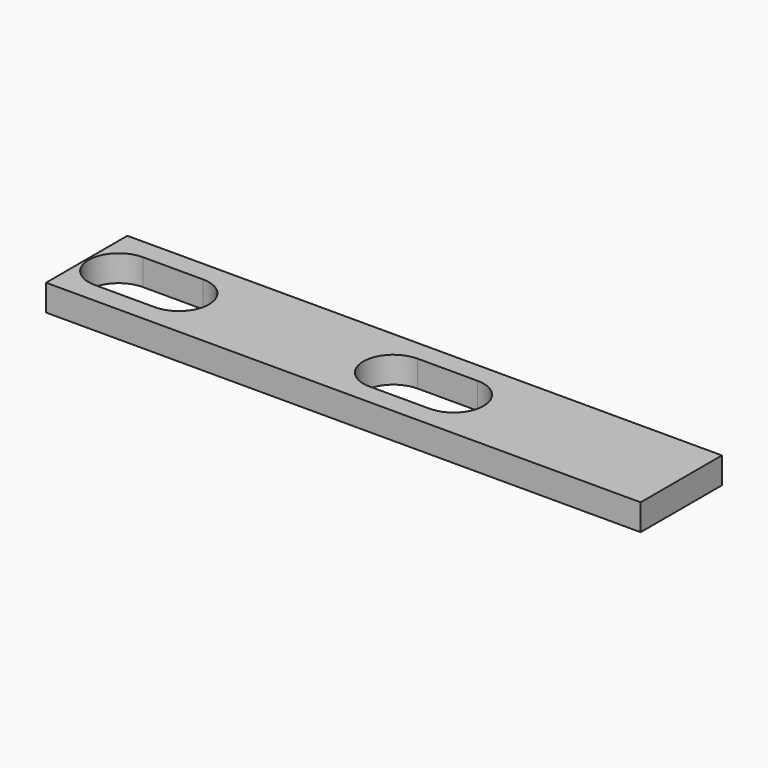
from build123d import *

# Parameters (mm, degrees)
F0_W     = 520
F0_H     = 27
F1_DEPTH = 7
F2_W     = 158
F2_H     = 96.179498
F2_W_2   = 50
F3_DEPTH = 25


with BuildPart() as f1:
    # F0 (on Top) → F1 (new body)
    with BuildSketch(Plane.XY):
        Rectangle(F0_W, F0_H)
        with BuildLine():
            ThreePointArc((-92.5, 8), (-86.843146, 5.656854), (-84.5, 0))
            ThreePointArc((-84.5, 0), (-86.843146, -5.656854), (-92.5, -8))
            Line((-92.5, -8), (-108.5, -8))
            ThreePointArc((-108.5, -8), (-116.5, 0), (-108.5, 8))
            Line((-108.5, 8), (-92.5, 8))
        make_face(mode=Mode.SUBTRACT)
        with BuildLine():
            ThreePointArc((-19.5, 8), (-13.843146, 5.656854), (-11.5, 0))
            ThreePointArc((-11.5, 0), (-13.843146, -5.656854), (-19.5, -8))
            Line((-19.5, -8), (-35.5, -8))
            ThreePointArc((-35.5, -8), (-43.5, 0), (-35.5, 8))
            Line((-35.5, 8), (-19.5, 8))
        make_face(mode=Mode.SUBTRACT)
        with BuildLine():
            ThreePointArc((53.5, 8), (59.156854, 5.656854), (61.5, 0))
            ThreePointArc((61.5, 0), (59.156854, -5.656854), (53.5, -8))
            Line((53.5, -8), (37.5, -8))
            ThreePointArc((37.5, -8), (29.5, 0), (37.5, 8))
            Line((37.5, 8), (53.5, 8))
        make_face(mode=Mode.SUBTRACT)
        with BuildLine():
            ThreePointArc((126.5, 8), (132.156854, 5.656854), (134.5, 0))
            ThreePointArc((134.5, 0), (132.156854, -5.656854), (126.5, -8))
            Line((126.5, -8), (110.5, -8))
            ThreePointArc((110.5, -8), (102.5, 0), (110.5, 8))
            Line((110.5, 8), (126.5, 8))
        make_face(mode=Mode.SUBTRACT)
        with BuildLine():
            ThreePointArc((199.5, 8), (205.156854, 5.656854), (207.5, 0))
            ThreePointArc((207.5, 0), (205.156854, -5.656854), (199.5, -8))
            Line((199.5, -8), (183.5, -8))
            ThreePointArc((183.5, -8), (175.5, 0), (183.5, 8))
            Line((183.5, 8), (199.5, 8))
        make_face(mode=Mode.SUBTRACT)
    extrude(amount=F1_DEPTH)

    # F2 (on face) → F3 (cut)
    with BuildSketch(Plane.XY.offset(7)):
        with Locations((23, -3.07426)):
            Rectangle(F2_W, F2_H)
        with Locations((-135, -3.07426)):
            Rectangle(F2_W, F2_H)
        with Locations((-239, -3.07426)):
            Rectangle(F2_W_2, F2_H)
    extrude(amount=-F3_DEPTH, mode=Mode.SUBTRACT)


solid = f1.part
